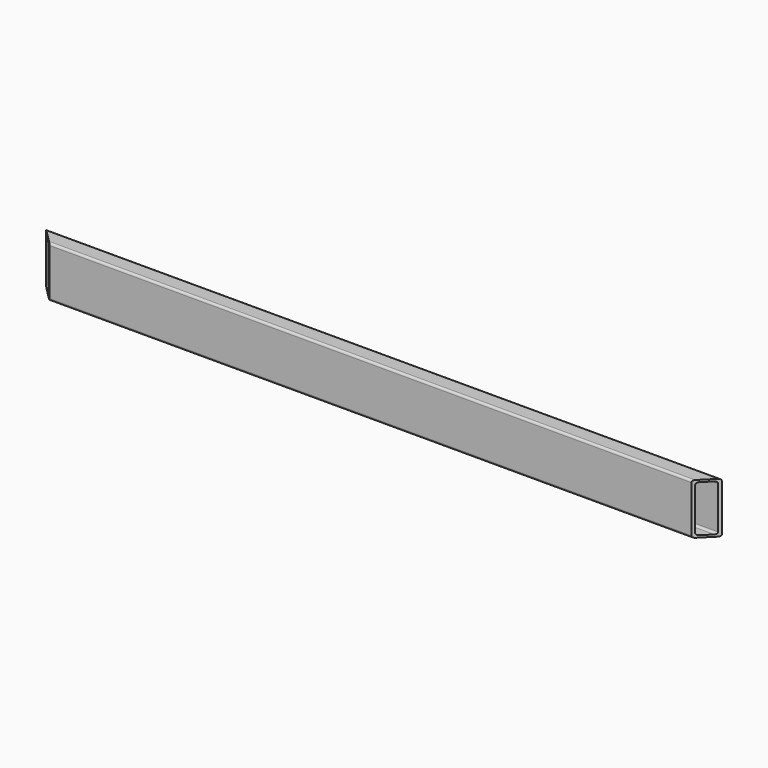
from build123d import *

# Parameters (mm, degrees)
F1_DEPTH = 1011.428
F3_DEPTH = 76.201
F5_DEPTH = 76.201


with BuildPart() as f1:
    # F0 (on Right) → F1 (new body)
    with BuildSketch(Plane.YZ):
        with BuildLine():
            ThreePointArc((0, 3.175), (0.9299359697, 0.9299359697), (3.175, 0))
            Line((3.175, 0), (22.225, 0))
            ThreePointArc((22.225, 0), (24.4700640303, 0.9299359697), (25.4, 3.175))
            Line((25.4, 3.175), (25.4, 73.025))
            ThreePointArc((25.4, 73.025), (24.4700640303, 75.2700640303), (22.225, 76.2))
            Line((22.225, 76.2), (3.175, 76.2))
            ThreePointArc((3.175, 76.2), (0.9299359697, 75.2700640303), (0, 73.025))
            Line((0, 73.025), (0, 3.175))
        make_face()
        with BuildLine():
            Line((19.05, 3.175), (6.35, 3.175))
            ThreePointArc((6.35, 3.175), (4.1049359697, 4.1049359697), (3.175, 6.35))
            Line((3.175, 6.35), (3.175, 69.85))
            ThreePointArc((3.175, 69.85), (4.1049359697, 72.0950640303), (6.35, 73.025))
            Line((6.35, 73.025), (19.05, 73.025))
            ThreePointArc((19.05, 73.025), (21.2950640303, 72.0950640303), (22.225, 69.85))
            Line((22.225, 69.85), (22.225, 6.35))
            ThreePointArc((22.225, 6.35), (21.2950640303, 4.1049359697), (19.05, 3.175))
        make_face(mode=Mode.SUBTRACT)
    extrude(amount=F1_DEPTH)

    # F2 (on face) → F3 (cut, through all)
    with BuildSketch(Plane(origin=(0, 0, 0), x_dir=(1, 0, 0), z_dir=(0, 0, -1))):
        Polygon((22.23230685, -3.175), (0, -3.175), (0, -22.225), (3.18230685, -22.225), align=None)
        Polygon((3.18230685, -22.225), (0, -22.225), (0, -25.40730685), align=None)
        Polygon((25.40730685, 0), (0, 0), (0, -3.175), (22.23230685, -3.175), align=None)
    extrude(amount=-F3_DEPTH, mode=Mode.SUBTRACT)

    # F4 (on face) → F5 (cut, through all)
    with BuildSketch(Plane.XY.offset(76.2)):
        Polygon((1011.428, 22.225), (1011.428, 25.4), (1008.253, 22.225), align=None)
        Polygon((1011.428, 0), (1011.428, 3.175), (989.203, 3.175), (986.028, 0), align=None)
        Polygon((1011.428, 3.175), (1011.428, 22.225), (1008.253, 22.225), (989.203, 3.175), align=None)
    extrude(amount=-F5_DEPTH, mode=Mode.SUBTRACT)


solid = f1.part
